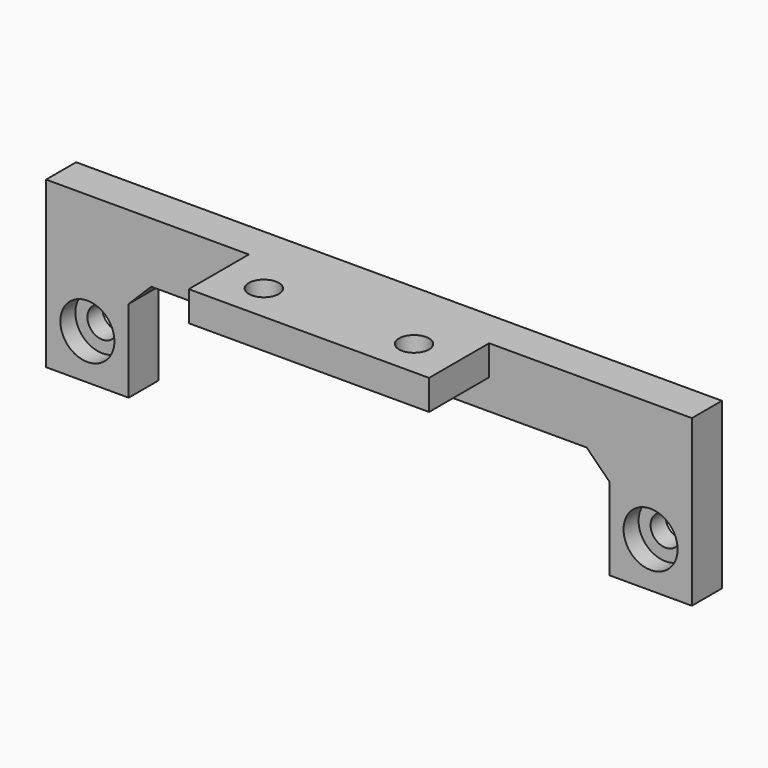
from build123d import *

# Parameters (mm, degrees)
BOX062_W          = 5
BOX062_H          = 8
BOX062_DEPTH      = 86
CYLINDER121_R     = 3.6
CYLINDER121_DEPTH = 5
BOX064_W          = 11
BOX064_H          = 5
BOX064_DEPTH      = 14
CYLINDER120_R     = 3.6
CYLINDER120_DEPTH = 5
BOX063_W          = 11
BOX063_H          = 5
BOX063_DEPTH      = 14
TUBE014_R         = 3.6
TUBE014_R_2       = 2
TUBE014_DEPTH     = 2.5
TUBE015_R         = 3.6
TUBE015_R_2       = 2
TUBE015_DEPTH     = 2.5
CYLINDER108_R     = 2
CYLINDER108_DEPTH = 7
CYLINDER107_R     = 2
CYLINDER107_DEPTH = 7
BOX050_W          = 32
BOX050_H          = 10
BOX050_DEPTH      = 4
CHAMFER002_SIZE   = 3


with BuildPart() as cube062:
    # Box062 → Box062 (new body)
    with BuildSketch(Plane(origin=(-5.5, 8, 8), x_dir=(0, 1, 0), z_dir=(1, 0, 0))):
        with Locations((2.5, 4)):
            Rectangle(BOX062_W, BOX062_H)
    extrude(amount=BOX062_DEPTH)


with BuildPart() as cylinder121:
    # Cylinder121 → Cylinder121 (new body)
    with BuildSketch(Plane(origin=(75, -73, 0), x_dir=(0, 0, -1), z_dir=(0, -1, 0))):
        Circle(CYLINDER121_R)
    extrude(amount=CYLINDER121_DEPTH)


with BuildPart() as cut066:
    # Box064 → Box064 (new body)
    with BuildSketch(Plane(origin=(69.5, -78, -6), x_dir=(1, 0, 0), z_dir=(0, 0, 1))):
        with Locations((5.5, 2.5)):
            Rectangle(BOX064_W, BOX064_H)
    extrude(amount=BOX064_DEPTH)

    # Cut066: cut Cylinder121
    add(cylinder121.part, mode=Mode.SUBTRACT)


with BuildPart() as cut066_1:
    # Cut066 placement: moved
    add(cut066.part.moved(Location((0, 86, 0))))


with BuildPart() as cylinder120:
    # Cylinder120 → Cylinder120 (new body)
    with BuildSketch(Plane(origin=(0, -73, 0), x_dir=(0, 0, -1), z_dir=(0, -1, 0))):
        Circle(CYLINDER120_R)
    extrude(amount=CYLINDER120_DEPTH)


with BuildPart() as cut065:
    # Box063 → Box063 (new body)
    with BuildSketch(Plane(origin=(-5.5, -78, -6), x_dir=(1, 0, 0), z_dir=(0, 0, 1))):
        with Locations((5.5, 2.5)):
            Rectangle(BOX063_W, BOX063_H)
    extrude(amount=BOX063_DEPTH)

    # Cut065: cut Cylinder120
    add(cylinder120.part, mode=Mode.SUBTRACT)


with BuildPart() as cut065_1:
    # Cut065 placement: moved
    add(cut065.part.moved(Location((0, 86, 0))))


with BuildPart() as tube014:
    # Tube014 → Tube014 (new body)
    with BuildSketch(Plane.XZ.offset(-13)):
        Circle(TUBE014_R)
        Circle(TUBE014_R_2, mode=Mode.SUBTRACT)
    extrude(amount=TUBE014_DEPTH)


with BuildPart() as tube015:
    # Tube015 → Tube015 (new body)
    with BuildSketch(Plane(origin=(75, 13, 0), x_dir=(1, 0, 0), z_dir=(0, -1, 0))):
        Circle(TUBE015_R)
        Circle(TUBE015_R_2, mode=Mode.SUBTRACT)
    extrude(amount=TUBE015_DEPTH)


with BuildPart() as cylinder108:
    # Cylinder108 → Cylinder108 (new body)
    with BuildSketch(Plane(origin=(28, -68, 7), x_dir=(1, 0, 0), z_dir=(0, 0, 1))):
        Circle(CYLINDER108_R)
    extrude(amount=CYLINDER108_DEPTH)


with BuildPart() as fusion053:
    # Cylinder107 → Cylinder107 (new body)
    with BuildSketch(Plane(origin=(48, -68, 7), x_dir=(1, 0, 0), z_dir=(0, 0, 1))):
        Circle(CYLINDER107_R)
    extrude(amount=CYLINDER107_DEPTH)

    # Fusion053: union Cylinder108
    add(cylinder108.part)


with BuildPart() as fusion053_1:
    # Fusion053 placement: moved
    add(fusion053.part.moved(Location((0, 0, 3))))


with BuildPart() as chamfer002:
    # Box050 → Box050 (new body)
    with BuildSketch(Plane(origin=(22, -73, 13), x_dir=(1, 0, 0), z_dir=(0, 0, 1))):
        with Locations((16, 5)):
            Rectangle(BOX050_W, BOX050_H)
    extrude(amount=BOX050_DEPTH)

    # Cut050: cut Fusion053
    add(fusion053_1.part, mode=Mode.SUBTRACT)


with BuildPart() as chamfer002_1:
    # Cut050 placement: moved
    add(chamfer002.part.moved(Location((-0.5, 71, -1))))

    # Fusion104: union Cube062, Cut066, Cut065, Tube014, Tube015
    add(cube062.part)
    add(cut066_1.part)
    add(cut065_1.part)
    add(tube014.part)
    add(tube015.part)

    # Chamfer002
    chamfer002_edges = [chamfer002_1.edges().sort_by_distance(p)[0] for p in [
        (5.5, 10.5, 8),
        (69.5, 10.5, 8),
    ]]
    chamfer(chamfer002_edges, length=CHAMFER002_SIZE)


solid = chamfer002_1.part
